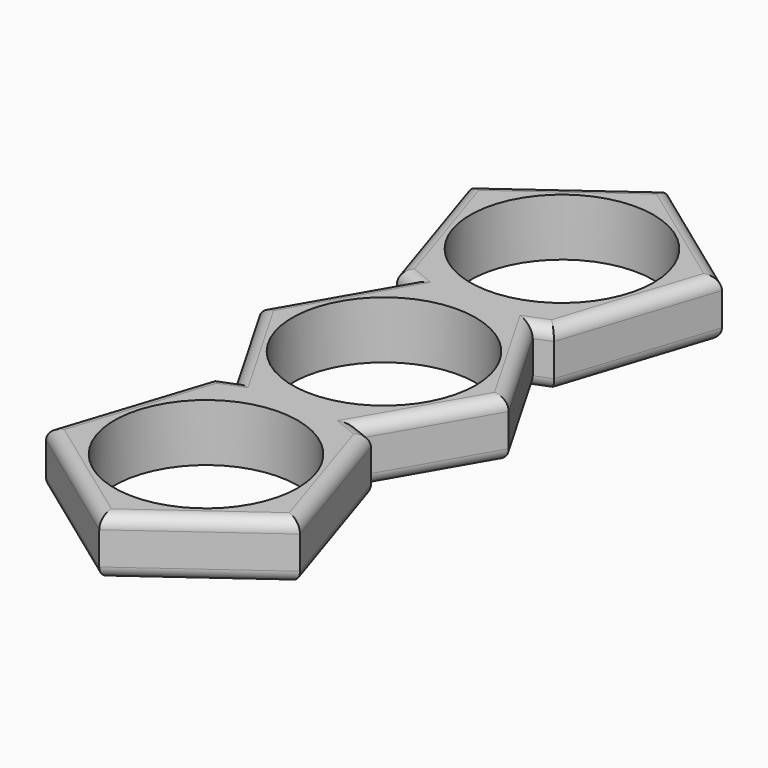
from build123d import *

# Parameters (mm, degrees)
F0_R     = 11.2
F1_DEPTH = 7
F2_R     = 1.5
F3_R     = 1.5


with BuildPart() as f1:
    # F0 (on Top) → F1 (new body)
    with BuildSketch(Plane.XY):
        Polygon((-15.517531, 32.227794), (-9.590361, 13.985842), (-7.621024, 13.2), (-15.242047, 0), (-7.621024, -13.2), (-9.590361, -13.985842), (-15.517531, -32.227794), (0, -43.50194), (15.517531, -32.227794), (9.590361, -13.985842), (7.621024, -13.2), (15.242047, 0), (7.621024, 13.2), (9.590361, 13.985842), (15.517531, 32.227794), (0, 43.50194), align=None)
        with Locations((0, -27.185842)):
            Circle(F0_R, mode=Mode.SUBTRACT)
        Circle(F0_R, mode=Mode.SUBTRACT)
        with Locations((0, 27.185842)):
            Circle(F0_R, mode=Mode.SUBTRACT)
    extrude(amount=F1_DEPTH)

    # F2
    f2_edges = [f1.edges().sort_by_distance(p)[0] for p in [
        (-12.553946, -23.106818, 7),
        (-7.758765, -37.864867, 7),
        (7.758765, -37.864867, 7),
        (12.553946, -23.106818, 7),
        (-8.605692, -13.592921, 7),
        (8.605692, -13.592921, 7),
        (8.605692, 13.592921, 7),
        (-8.605692, 13.592921, 7),
        (-11.431535, 6.6, 7),
        (-11.431535, -6.6, 7),
        (11.431535, -6.6, 7),
        (11.431535, 6.6, 7),
        (12.553946, 23.106818, 7),
        (7.758765, 37.864867, 7),
        (-7.758765, 37.864867, 7),
        (-12.553946, 23.106818, 7),
    ]]
    fillet(f2_edges, radius=F2_R)

    # F3
    f3_edges = [f1.edges().sort_by_distance(p)[0] for p in [
        (-7.758765, -37.864867, 0),
        (-12.553946, -23.106818, 0),
        (12.553946, -23.106818, 0),
        (7.758765, -37.864867, 0),
        (-8.605692, -13.592921, 0),
        (-8.605692, 13.592921, 0),
        (8.605692, 13.592921, 0),
        (8.605692, -13.592921, 0),
        (11.431535, -6.6, 0),
        (-12.553946, 23.106818, 0),
        (-7.758765, 37.864867, 0),
        (7.758765, 37.864867, 0),
        (12.553946, 23.106818, 0),
        (-11.431535, 6.6, 0),
        (-11.431535, -6.6, 0),
        (11.431535, 6.6, 0),
    ]]
    fillet(f3_edges, radius=F3_R)


solid = f1.part
